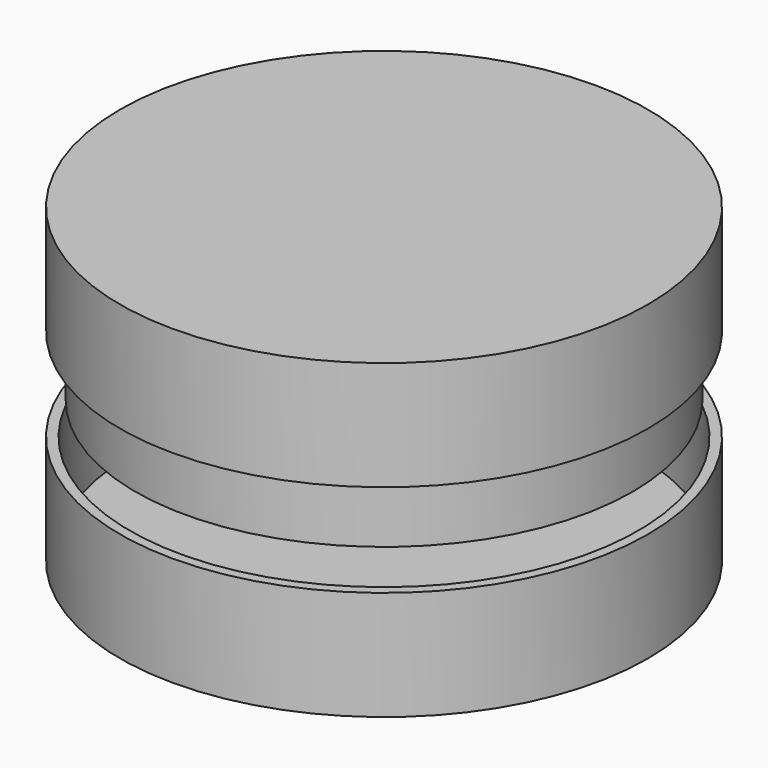
from build123d import *

# Parameters (mm, degrees)
CYLINDER007_R           = 8
CYLINDER007_DEPTH       = 10
CYLINDER_R              = 17.5
CYLINDER_DEPTH          = 9.65
CYLINDER001_R           = 17.78
CYLINDER001_DEPTH       = 10.92
BODY001_PLACEMENT_ANGLE = 180


with BuildPart() as glass_socket:
    # Cylinder007 → Cylinder007 (new body)
    with BuildSketch(Plane.XY.offset(-0.82)):
        Circle(CYLINDER007_R)
    extrude(amount=CYLINDER007_DEPTH)


with BuildPart() as cylinder:
    # Cylinder → Cylinder (new body)
    with BuildSketch(Plane.XY.offset(-0.2)):
        Circle(CYLINDER_R)
    extrude(amount=CYLINDER_DEPTH)


with BuildPart() as dish_w_glass_bottom:
    # Cylinder001 → Cylinder001 (new body)
    with BuildSketch(Plane.XY.offset(-1.5)):
        Circle(CYLINDER001_R)
    extrude(amount=CYLINDER001_DEPTH)

    # Cut: cut Cylinder
    add(cylinder.part, mode=Mode.SUBTRACT)


with BuildPart() as dish_w_glass_bottom_1:
    # Cut placement: moved
    add(dish_w_glass_bottom.part.moved(Location((0, 0, 0.5))))

    # Cut003: cut Glass socket
    add(glass_socket.part, mode=Mode.SUBTRACT)


with BuildPart() as dish_lid:
    # Sketch → Revolution (revolve)
    with BuildSketch(Plane.XZ):
        Polygon((0, 11.140107), (18.872889, 11.140107), (18.872889, 3.325215), (18.172889, 3.325215), (18.172889, 10.440107), (0, 10.440107), align=None)
    revolve(axis=Axis((0, 0, 0), (0, 0, 1)))


with BuildPart() as dish_lid001:
    # Sketch001 → Revolution001 (revolve)
    with BuildSketch(Plane.XZ):
        Polygon((0, 11.140107), (18.872889, 11.140107), (18.872889, 3.325215), (18.172889, 3.325215), (18.172889, 10.440107), (0, 10.440107), align=None)
    revolve(axis=Axis((0, 0, 0), (0, 0, 1)))


with BuildPart() as dish_lid001_1:
    # Body001 placement: moved
    add(dish_lid001.part.rotate(Axis((0, 0, 0), (0, 1, 0)), BODY001_PLACEMENT_ANGLE))


with BuildPart() as dish_35_mm:
    # Sketch002 → Revolution002 (revolve)
    with BuildSketch(Plane.XZ):
        Polygon((0, -0.908115), (17.735542, -0.908115), (17.735542, 9.884161), (17.135542, 9.884161), (17.135542, 0.462332), (0, 0.462332), align=None)
    revolve(axis=Axis((0, 0, 0), (0, 0, 1)))


solid = Compound([dish_w_glass_bottom_1.part, dish_lid.part, dish_lid001_1.part, dish_35_mm.part])
